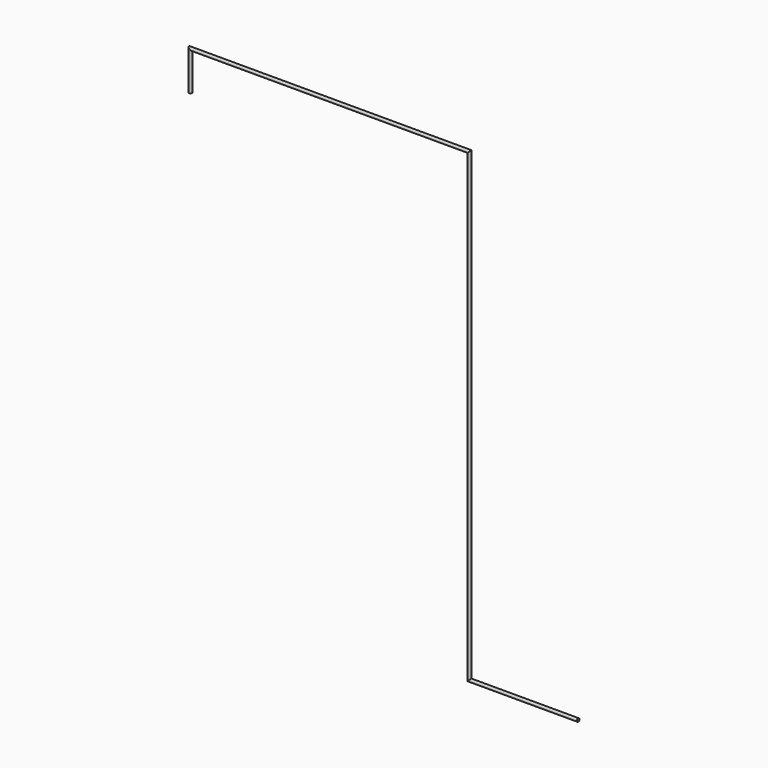
from build123d import *

# Parameters (mm, degrees)
F0_R = 5


with BuildPart() as f2:
    # F2: sweep along a path in F1
    with BuildLine(Plane.XZ) as f2_path:
        Line((0, 0), (0, 127))
        Line((0, 127), (914.4, 127))
        Line((914.4, 127), (914.4, -1397))
        Line((914.4, -1397), (1270, -1397))
    # F0 (on Top) → F2 (sweep)
    with BuildSketch(Plane.XY):
        Circle(F0_R)
    sweep(path=f2_path.line, transition=Transition.RIGHT)


solid = f2.part
